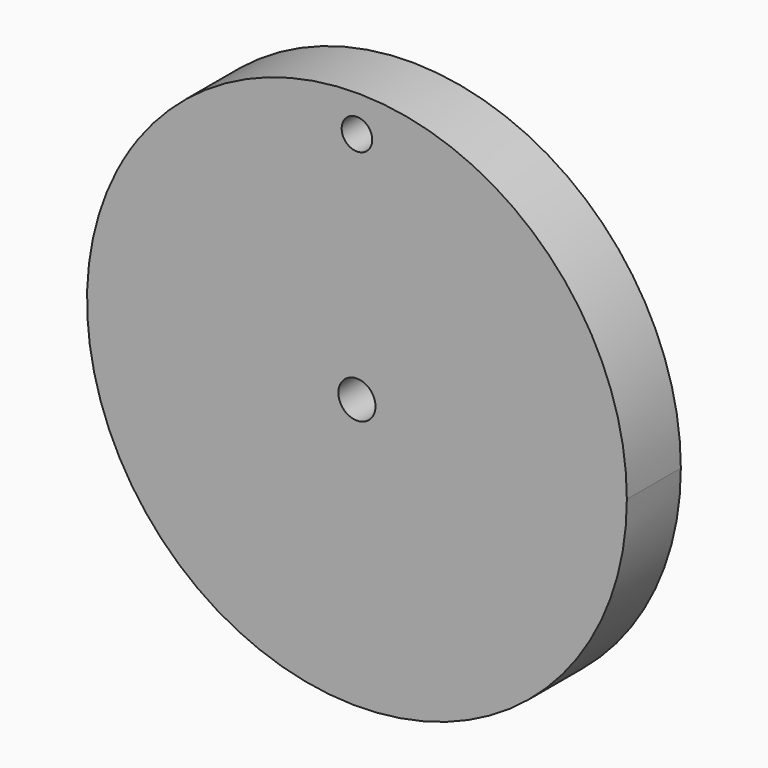
from build123d import *

# Parameters (mm, degrees)
F0_R     = 101.6
F1_DEPTH = 25.4
F2_R     = 6.985
F3_DEPTH = 25.4
F5_DEPTH = 25.4
F6_R     = 5.7500810909
F7_DEPTH = 25.4


with BuildPart() as f1:
    # F0 (on Front) → F1 (new body)
    with BuildSketch(Plane.XZ):
        Circle(F0_R)
    extrude(amount=F1_DEPTH)

    # F2 (on face) → F3 (cut)
    with BuildSketch(Plane.XZ.offset(25.4)):
        Circle(F2_R)
    extrude(amount=-F3_DEPTH, mode=Mode.SUBTRACT)

    # F4 (on face) → F5 (cut)
    with BuildSketch(Plane.XZ.offset(25.4)):
        with BuildLine():
            ThreePointArc((-90.4125676958, 46.3478974998), (-86.5556978754, 53.2040521511), (-82.1799387694, 59.7412559615))
            Line((-82.1799387694, 59.7412559615), (-107.8644320369, 59.7412559615))
            Line((-107.8644320369, 59.7412559615), (-107.8644320369, 46.3478974998))
            Line((-107.8644320369, 46.3478974998), (-90.4125676958, 46.3478974998))
        make_face()
    extrude(amount=-F5_DEPTH, mode=Mode.SUBTRACT)

    # F6 (on face) → F7 (cut)
    with BuildSketch(Plane.XZ.offset(25.4)):
        with Locations((0, 87.9493951797)):
            Circle(F6_R)
    extrude(amount=-F7_DEPTH, mode=Mode.SUBTRACT)


solid = f1.part
